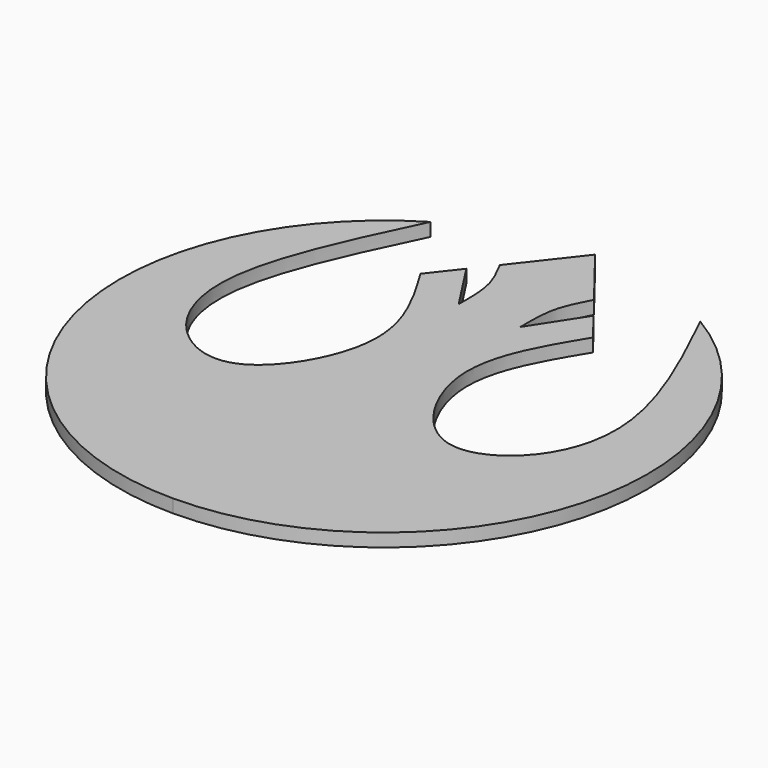
from build123d import *

# Parameters (mm, degrees)
F1_DEPTH = 1.27


with BuildPart() as f1:
    # F0 (on Top) → F1 (new body)
    with BuildSketch(Plane.XY):
        with BuildLine():
            Line((-36.158551915, 2.6550327152), (-36.158551915, 53.4550327152))
            Line((-36.158551915, 53.4550327152), (-40.6869963584, 47.6562697673))
            add(Edge.make_bspline(
                [(-40.6869963584, 47.6562697673), (-40.1641453897, 46.6681134022), (-39.0826608161, 44.6241736773), (-39.113671722, 42.0757050248), (-39.1296901975, 40.7593106305)],
                knots=[0, 0, 0, 0, 0.4834567052, 1, 1, 1, 1], degree=3))
            Line((-39.1296901975, 40.7593106305), (-42.2807221115, 45.6154723231))
            Line((-42.2807221115, 45.6154723231), (-44.4618798067, 42.8224566232))
            add(Edge.make_bspline(
                [(-49.1409916726, 49.8865754445), (-52.0837138627, 43.7726787535), (-57.0649194431, 33.3943397623), (-53.1410472762, 23.8121207167), (-45.2525005317, 20.7638043386), (-38.2062629669, 32.5012464085), (-42.3485932869, 39.3357360429), (-44.4618798067, 42.8224566232)],
                knots=[0, 0, 0, 0, 0.2602405438, 0.4413293981, 0.5936432083, 0.7926721325, 1, 1, 1, 1], degree=3))
            ThreePointArc((-49.1409916726, 49.8865754445), (-60.6501952381, 21.3230636617), (-36.158551915, 2.6550327152))
        make_face()
    extrude(amount=F1_DEPTH)

    # F2: F1 across face


with BuildPart() as f1_1:
    add(f1.part)
    add(f1.part.mirror(Plane(origin=(-36.158551915, 28.0550327152, 0.635), x_dir=(0, 1, 0), z_dir=(1, 0, 0))))


solid = f1_1.part
